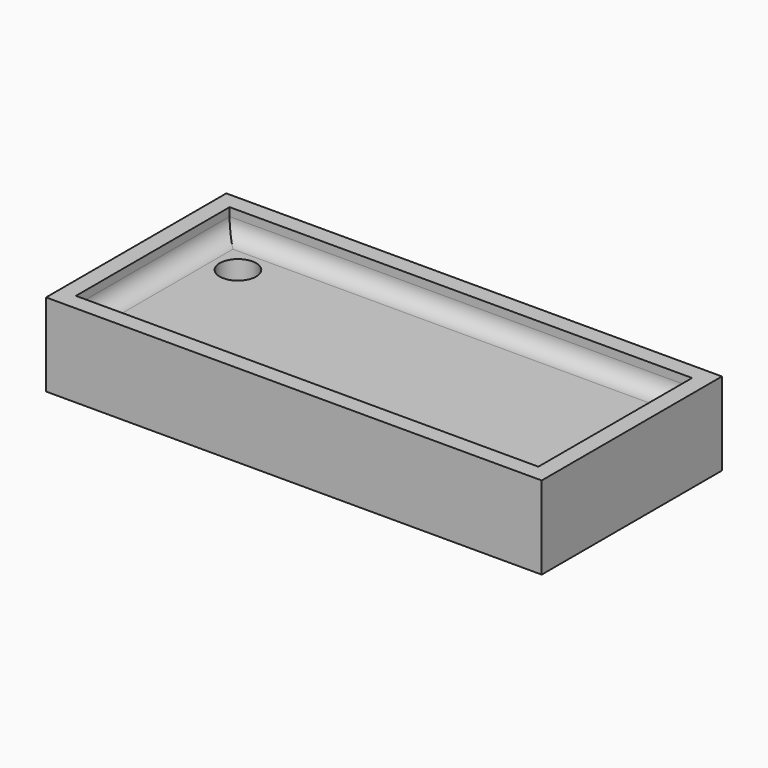
from build123d import *

# Parameters (mm, degrees)
F0_W     = 59.7732812166
F0_H     = 27.1696727723
F1_DEPTH = 2.5
F2_T     = -2
F3_DEPTH = 5
F4_R     = 2
F6_D     = 4.4


with BuildPart() as f1:
    # F0 (on Top) → F1 (new body, symmetric)
    with BuildSketch(Plane.XY):
        Rectangle(F0_W, F0_H)
    extrude(amount=F1_DEPTH, both=True)

    # F2
    f2_openings = [f1.faces().sort_by_distance(p)[0] for p in [
        (0, 0, 2.5),
    ]]
    offset(amount=F2_T, openings=f2_openings)

    # F3 (add): a face of the model
    f3_faces = [f1.faces().sort_by_distance(p)[0] for p in [
        (0, 0, -2.5),
    ]]
    extrude(f3_faces, amount=F3_DEPTH)

    # F4
    f4_edges = [f1.edges().sort_by_distance(p)[0] for p in [
        (0, 11.584836, -0.5),
        (0, -11.584836, -0.5),
        (27.886641, 0, -0.5),
        (-27.886641, 0, -0.5),
    ]]
    fillet(f4_edges, radius=F4_R)

    # F6 (through all)
    with Locations(Plane.XY):
        with Locations((-22.8866406083, 6.5848363861)):
            Hole(F6_D / 2)


solid = f1.part
